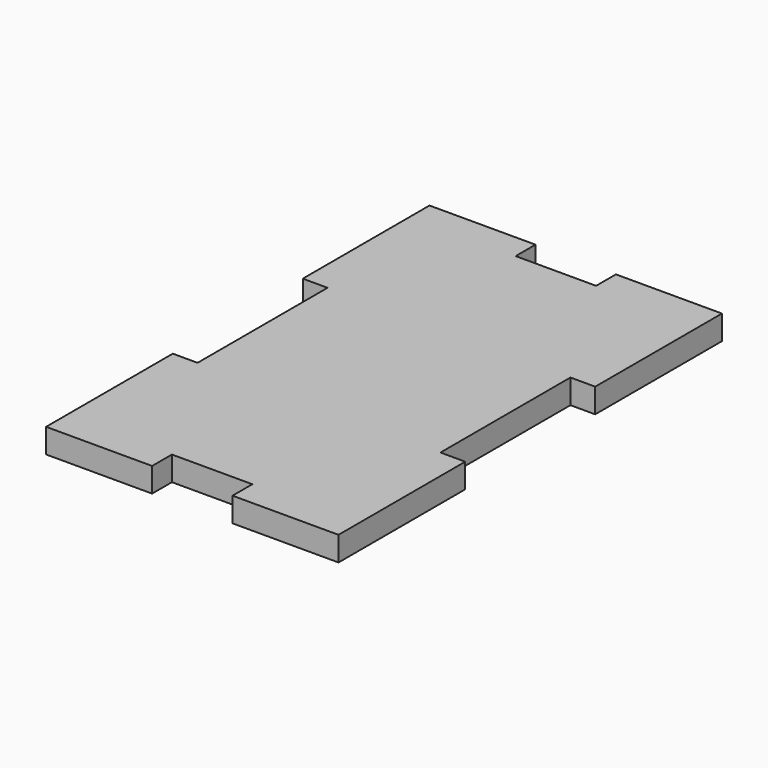
from build123d import *

# Parameters (mm, degrees)
F1_DEPTH = 3


with BuildPart() as f1:
    # F0 (on Top) → F1 (new body)
    with BuildSketch(Plane.XY):
        Polygon((4.95, -29.5), (18, -29.5), (18, -10), (14.95, -10), (14.95, 10), (18, 10), (18, 29.5), (4.95, 29.5), (4.95, 26.45), (-4.95, 26.45), (-4.95, 29.5), (-18, 29.5), (-18, 10), (-14.95, 10), (-14.95, -10), (-18, -10), (-18, -29.5), (-4.95, -29.5), (-4.95, -26.45), (4.95, -26.45), align=None)
    extrude(amount=F1_DEPTH)


solid = f1.part
